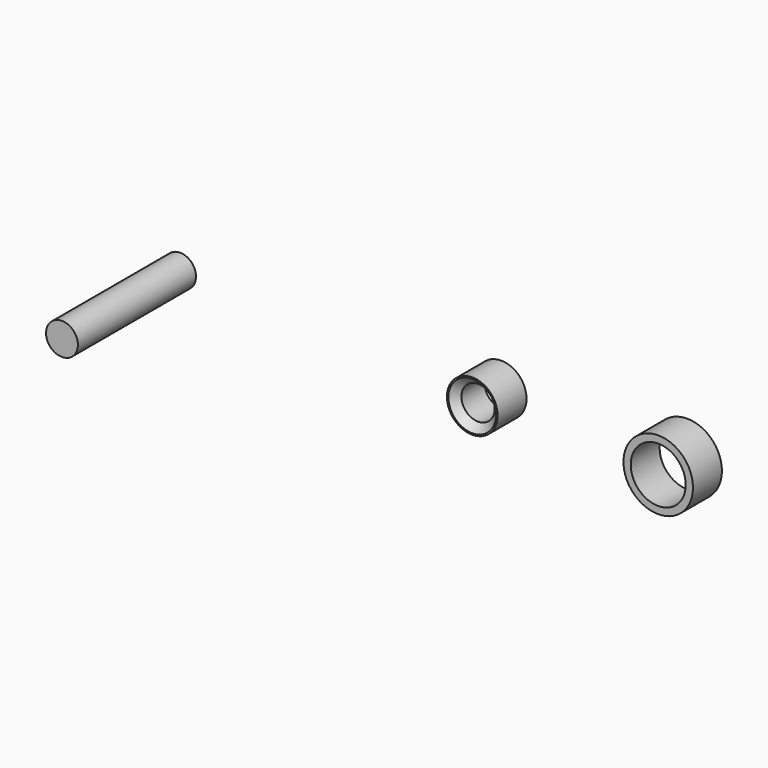
from build123d import *

# Parameters (mm, degrees)
F0_R     = 4.445
F0_R_2   = 2.921
F1_DEPTH = 6.35
F2_R     = 6.096
F2_R_2   = 4.826
F3_DEPTH = 6.35
F4_SIZE  = 1.27
F5_R     = 2.794
F6_DEPTH = 25.908


with BuildPart() as f1:
    # F0 (on Front) → F1 (new body)
    with BuildSketch(Plane.XZ):
        Circle(F0_R)
        Circle(F0_R_2, mode=Mode.SUBTRACT)
    extrude(amount=F1_DEPTH)

    # F4
    f4_edges = [f1.edges().sort_by_distance(p)[0] for p in [
        (-2.921, -6.35, 0),
    ]]
    chamfer(f4_edges, length=F4_SIZE)


with BuildPart() as f3:
    # F2 (on Front) → F3 (new body)
    with BuildSketch(Plane.XZ):
        with Locations((32.62512, 0)):
            Circle(F2_R)
        with Locations((32.62512, 0)):
            Circle(F2_R_2, mode=Mode.SUBTRACT)
    extrude(amount=F3_DEPTH)


with BuildPart() as f6:
    # F5 (on Front) → F6 (new body)
    with BuildSketch(Plane.XZ):
        with Locations((-56.338213, 0)):
            Circle(F5_R)
    extrude(amount=F6_DEPTH)


solid = Compound([f1.part, f3.part, f6.part])
